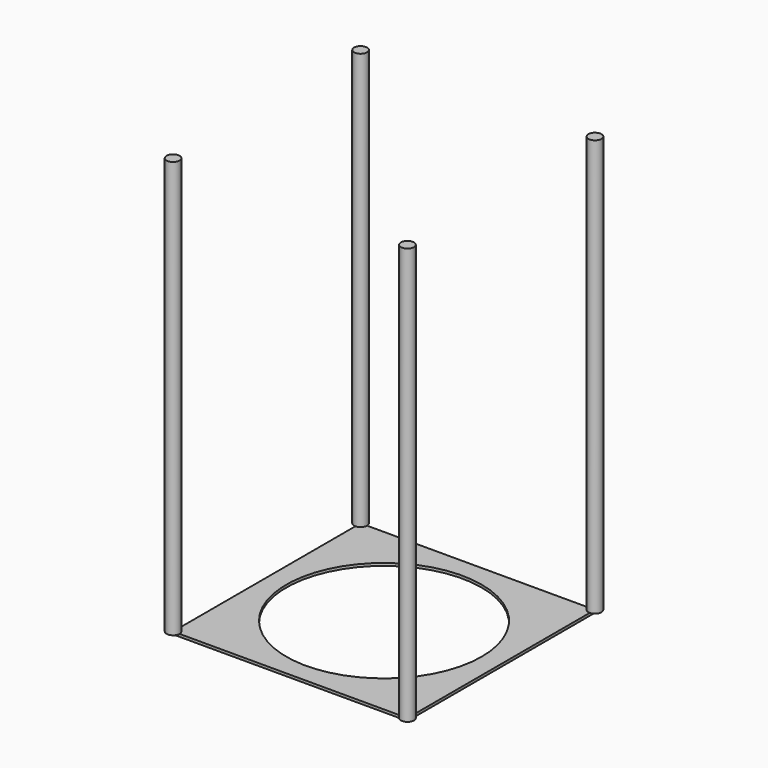
from build123d import *

# Parameters (mm, degrees)
F0_W     = 900
F0_H     = 900
F1_DEPTH = 10
F2_R     = 25
F3_DEPTH = 1600
F4_R     = 375
F5_DEPTH = 10.001


with BuildPart() as f1:
    # F0 (on Top) → F1 (new body)
    with BuildSketch(Plane.XY):
        with Locations((450, 450)):
            Rectangle(F0_W, F0_H)
    extrude(amount=F1_DEPTH)

    # F2 (on face) → F3 (join)
    with BuildSketch(Plane.XY.offset(10)):
        Circle(F2_R)
        with Locations((0, 900)):
            Circle(F2_R)
        with Locations((900, 900)):
            Circle(F2_R)
        with Locations((900, 0)):
            Circle(F2_R)
    extrude(amount=F3_DEPTH)

    # F4 (on face) → F5 (cut, through all)
    with BuildSketch(Plane.XY.offset(10)):
        with Locations((450, 450)):
            Circle(F4_R)
    extrude(amount=-F5_DEPTH, mode=Mode.SUBTRACT)


solid = f1.part
